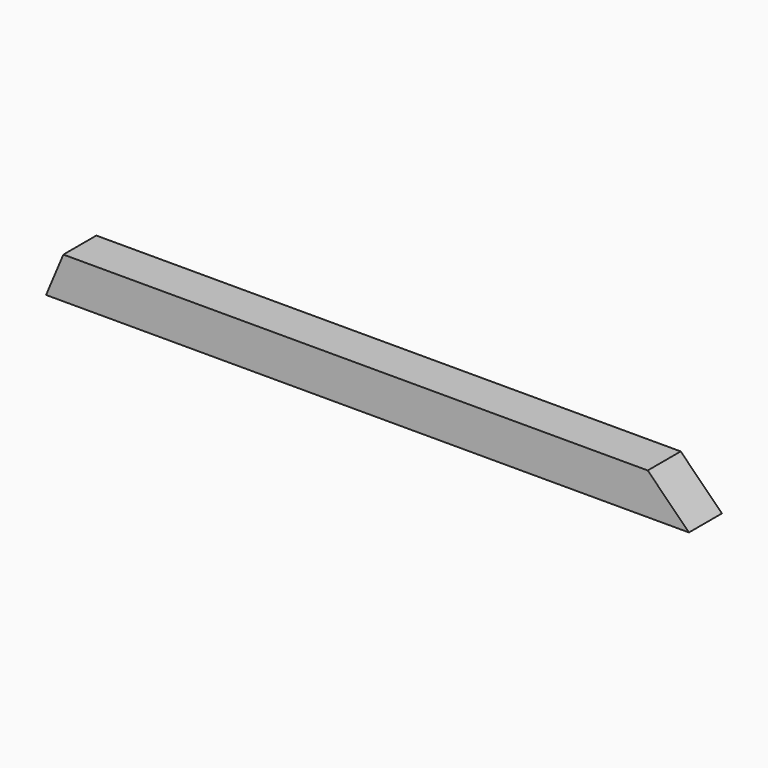
from build123d import *

# Parameters (mm, degrees)
F2_DEPTH = 15.875


with BuildPart() as f2:
    # F1 (on face) → F2 (new body, symmetric)
    with BuildSketch(Plane.XZ):
        Polygon((215.9, 15.875), (-234.33612, 15.875), (-247.65, -15.875), (247.65, -15.875), align=None)
    extrude(amount=F2_DEPTH, both=True)


solid = f2.part
